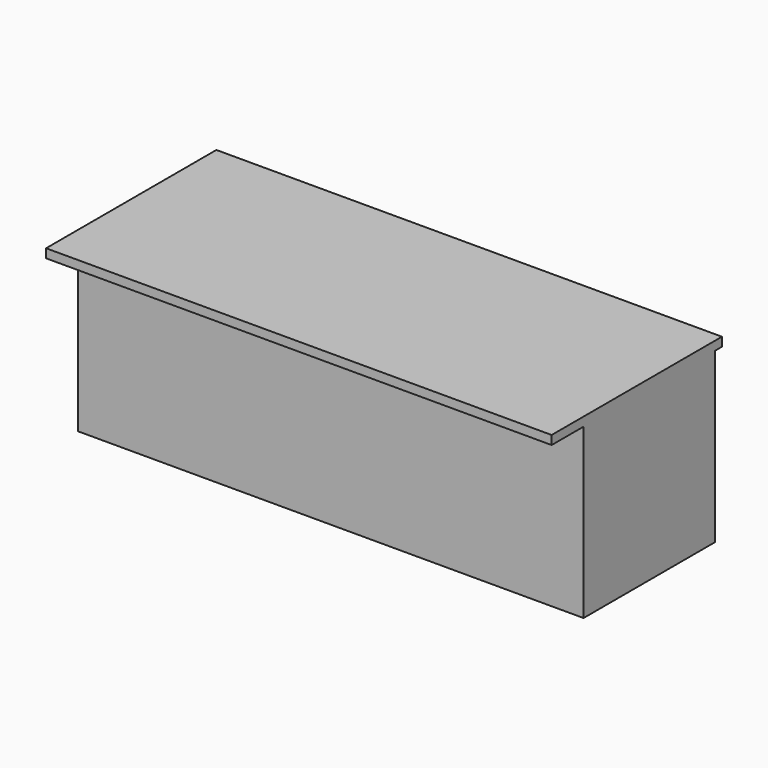
from build123d import *

# Parameters (mm, degrees)
F0_W     = 2895.6
F0_H     = 1219.2
F1_DEPTH = 1016
F2_W     = 228.6
F2_H     = 965.2
F2_W_2   = 50.8
F3_DEPTH = 3048


with BuildPart() as f1:
    # F0 (on Top) → F1 (new body)
    with BuildSketch(Plane.XY):
        Rectangle(F0_W, F0_H)
    extrude(amount=F1_DEPTH)

    # F2 (on face) → F3 (cut)
    with BuildSketch(Plane.YZ.offset(1447.8)):
        with Locations((-495.3, 482.6)):
            Rectangle(F2_W, F2_H)
        with Locations((584.2, 482.6)):
            Rectangle(F2_W_2, F2_H)
    extrude(amount=-F3_DEPTH, mode=Mode.SUBTRACT)


solid = f1.part
